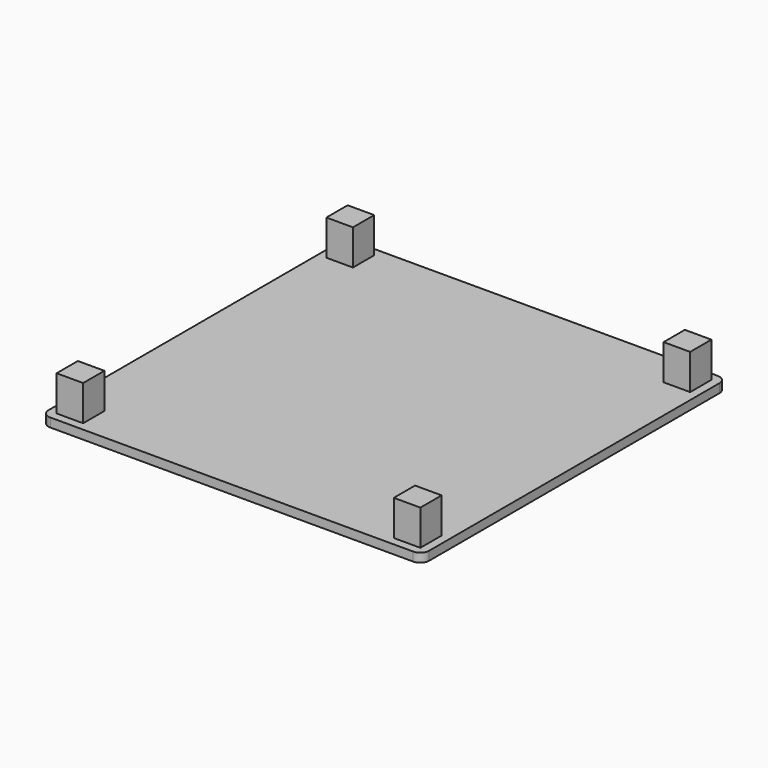
from build123d import *

# Parameters (mm, degrees)
SKETCH_W     = 43
SKETCH_H     = 43
PAD_DEPTH    = 1
SKETCH001_W  = 3
SKETCH001_H  = 3
PAD001_DEPTH = 4
FILLET_R     = 1
FILLET001_R  = 1
FILLET002_R  = 1
FILLET003_R  = 1


with BuildPart() as part:
    # Sketch → Pad (new body)
    with BuildSketch(Plane.XY):
        Rectangle(SKETCH_W, SKETCH_H)
    extrude(amount=PAD_DEPTH)

    # Sketch001 (on Face6 of Pad) → Pad001 (join)
    with BuildSketch(Plane.XY.offset(1)):
        with Locations((-19.05, 19.05)):
            Rectangle(SKETCH001_W, SKETCH001_H)
        with Locations((19.05, 19.05)):
            Rectangle(SKETCH001_W, SKETCH001_H)
        with Locations((-19.05, -19.05)):
            Rectangle(SKETCH001_W, SKETCH001_H)
        with Locations((19.05, -19.05)):
            Rectangle(SKETCH001_W, SKETCH001_H)
    extrude(amount=PAD001_DEPTH)

    # Fillet
    fillet_edges = [part.edges().sort_by_distance(p)[0] for p in [
        (-21.5, -21.5, 0.5),
    ]]
    fillet(fillet_edges, radius=FILLET_R)

    # Fillet001
    fillet001_edges = [part.edges().sort_by_distance(p)[0] for p in [
        (21.5, -21.5, 0.5),
    ]]
    fillet(fillet001_edges, radius=FILLET001_R)

    # Fillet002
    fillet002_edges = [part.edges().sort_by_distance(p)[0] for p in [
        (-21.5, 21.5, 0.5),
    ]]
    fillet(fillet002_edges, radius=FILLET002_R)

    # Fillet003
    fillet003_edges = [part.edges().sort_by_distance(p)[0] for p in [
        (21.5, 21.5, 0.5),
    ]]
    fillet(fillet003_edges, radius=FILLET003_R)


solid = part.part
